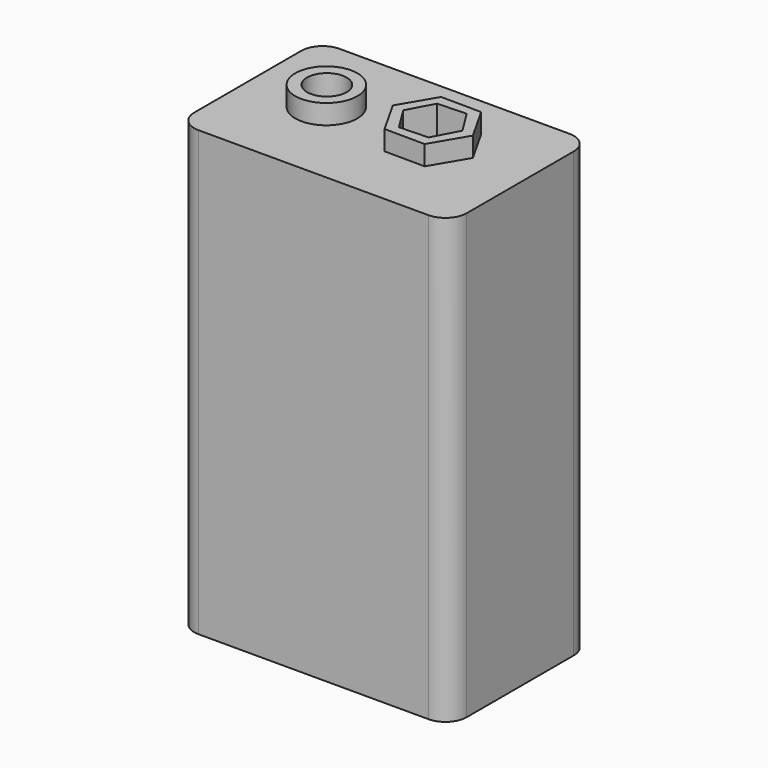
from build123d import *

# Parameters (mm, degrees)
F0_W     = 39.259444
F0_H     = 63.933932
F1_DEPTH = 25.4
F2_R     = 3.066051
F3_R     = 4.474413
F4_DEPTH = 34.798
F6_DEPTH = 34.798
F7_R     = 2.859954
F8_DEPTH = 35.306


with BuildPart() as f1:
    # F0 (on Front) → F1 (new body)
    with BuildSketch(Plane.XZ):
        Rectangle(F0_W, F0_H)
    extrude(amount=F1_DEPTH)

    # F2
    f2_edges = [f1.edges().sort_by_distance(p)[0] for p in [
        (-19.629722, -25.4, 0),
        (19.629722, 0, 0),
        (19.629722, -25.4, 0),
        (-19.629722, 0, 0),
    ]]
    fillet(f2_edges, radius=F2_R)

    # F3 (on Top) → F4 (join)
    with BuildSketch(Plane.XY):
        with Locations((-8.871355, -11.997017)):
            Circle(F3_R)
    extrude(amount=F4_DEPTH)

    # F5 (on Top) → F6 (join)
    with BuildSketch(Plane.XY):
        Polygon((2.987864, -16.336561), (8.799858, -16.389728), (11.751899, -11.382976), (8.891946, -6.323057), (3.079951, -6.269891), (0.12791, -11.276643), align=None)
    extrude(amount=F6_DEPTH)

    # F7 (on Top) → F8 (cut)
    with BuildSketch(Plane.XY):
        with Locations((-8.799859, -11.989804)):
            Circle(F7_R)
        Polygon((7.888282, -7.664617), (3.739939, -7.809872), (1.791562, -11.475069), (3.991527, -14.995012), (8.13987, -14.849758), (10.088247, -11.18456), align=None)
    extrude(amount=F8_DEPTH, mode=Mode.SUBTRACT)


solid = f1.part
